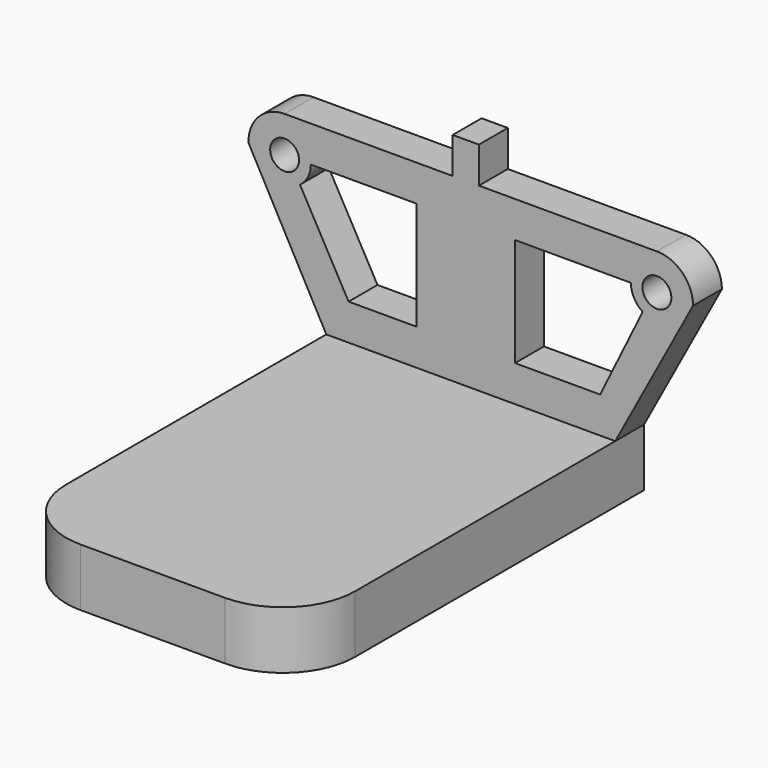
from build123d import *

# Parameters (mm, degrees)
F0_W      = 40
F0_H      = 8
F1_DEPTH  = 60
F0_W_2    = 3.6288669872
F0_H_2    = 15
F0_R      = 2
F1_FACE_W = 40
F1_FACE_H = 8
F2_DEPTH  = 5
F3_R      = 10
F4_R      = 10
F5_DEPTH  = 25


with BuildPart() as f1:
    # F0 (on Front) → F1 (new body)
    with BuildSketch(Plane.XZ):
        with Locations((0, -4)):
            Rectangle(F0_W, F0_H)
    extrude(amount=F1_DEPTH)

    # F0 (on Front) + F1_face (on face) → F2 (join)
    with BuildSketch(Plane.XZ):
        with Locations((0, -4)):
            Rectangle(F0_W, F0_H)
        with BuildLine():
            Line((-30.7675590175, 19.8437826291), (-20, 0))
            Line((-20, 0), (20, 0))
            Line((20, 0), (30.77, 20))
            ThreePointArc((30.77, 20), (29.3055339059, 23.5355339059), (25.77, 25))
            Line((25.77, 25), (-25.77, 25))
            ThreePointArc((-25.77, 25), (-29.3603402941, 23.4798644475), (-30.7675590175, 19.8437826291))
        make_face()
        with BuildLine():
            ThreePointArc((-23.6389977535, 17.0627385142), (-22.5372148762, 18.3514321505), (-22.1411330128, 20))
            Line((-22.1411330128, 20), (-7.5, 20))
            Line((-7.5, 20), (-7.5, 5))
            Line((-7.5, 5), (-16.9122926891, 5))
            Line((-16.9122926891, 5), (-23.6389977535, 17.0627385142))
        make_face(mode=Mode.SUBTRACT)
        with Locations((-0.6855665064, 12.5)):
            Rectangle(F0_W_2, F0_H_2, mode=Mode.SUBTRACT)
        with Locations((-25.77, 20)):
            Circle(F0_R, mode=Mode.SUBTRACT)
        with BuildLine():
            Line((6.1288669872, 5), (6.1288669872, 20))
            Line((6.1288669872, 20), (22.1729351457, 20))
            ThreePointArc((22.1729351457, 20), (22.6057679037, 18.2892952308), (23.8001011411, 16.9902867159))
            Line((23.8001011411, 16.9902867159), (17.9096478969, 5))
            Line((17.9096478969, 5), (6.1288669872, 5))
        make_face(mode=Mode.SUBTRACT)
        with Locations((25.77, 20)):
            Circle(F0_R, mode=Mode.SUBTRACT)
    with BuildSketch(Plane(origin=(0, 0, -4), x_dir=(1, 0, 0), z_dir=(0, 1, 0))):
        Rectangle(F1_FACE_W, F1_FACE_H)
    extrude(amount=F2_DEPTH, dir=(0, -1, 0))

    # F3
    f3_edges = [f1.edges().sort_by_distance(p)[0] for p in [
        (-20, -60, -4),
    ]]
    fillet(f3_edges, radius=F3_R)

    # F4
    f4_edges = [f1.edges().sort_by_distance(p)[0] for p in [
        (20, -60, -4),
    ]]
    fillet(f4_edges, radius=F4_R)

    # F5 (add): a face of the model
    f5_faces = [f1.faces().sort_by_distance(p)[0] for p in [
        (-0.6855665064, -2.5, 5),
    ]]
    extrude(f5_faces, amount=F5_DEPTH)


solid = f1.part
